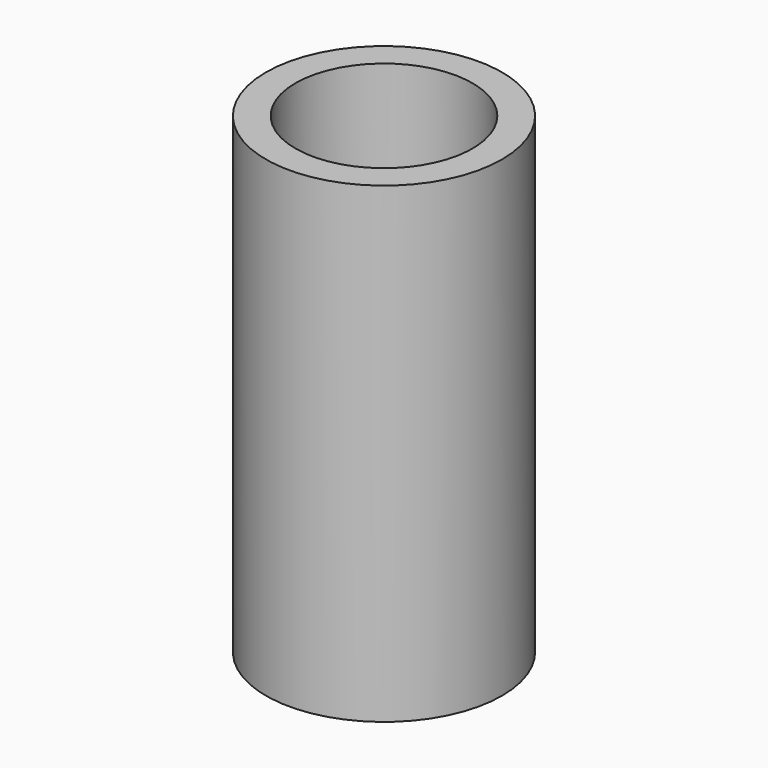
from build123d import *

# Parameters (mm, degrees)
F0_R     = 4
F1_DEPTH = 16
F3_D     = 6
F3_DEPTH = 8
F3_TIP   = 1.8025818571


with BuildPart() as f1:
    # F0 (on Top) → F1 (new body)
    with BuildSketch(Plane.XY):
        Circle(F0_R)
        with BuildLine():
            ThreePointArc((-1.55, 0), (-1.4005641377, 0.6640181445), (-0.9810708435, 1.2))
            Line((-0.9810708435, 1.2), (0.9810708435, 1.2))
            ThreePointArc((0.9810708435, 1.2), (1.4005641377, 0.6640181445), (1.55, 0))
            ThreePointArc((1.55, 0), (1.4005641377, -0.6640181445), (0.9810708435, -1.2))
            Line((0.9810708435, -1.2), (-0.9810708435, -1.2))
            ThreePointArc((-0.9810708435, -1.2), (-1.4005641377, -0.6640181445), (-1.55, 0))
        make_face(mode=Mode.SUBTRACT)
    extrude(amount=F1_DEPTH)

    # F3
    with Locations(Plane.XY.offset(16)):
        with Locations((0, 0)):
            Hole(F3_D / 2, depth=F3_DEPTH)
            with Locations((0, 0, -(F3_DEPTH + F3_TIP / 2))):  # 118° drill point
                Cone(0, F3_D / 2, F3_TIP, mode=Mode.SUBTRACT)


solid = f1.part
